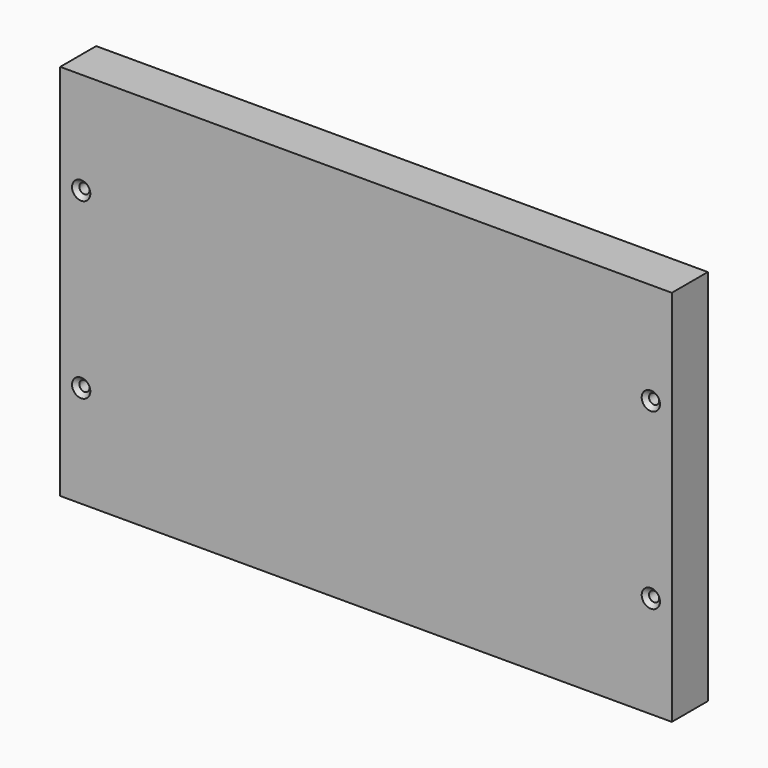
from build123d import *

# Parameters (mm, degrees)
SKETCH_W         = 204
SKETCH_H         = 126
PAD_DEPTH        = 15
SKETCH001_W      = 202
SKETCH001_H      = 124
POCKET_DEPTH     = 14
SKETCH002_R      = 3
PAD001_DEPTH     = 15
HOLE_D           = 3.4
HOLE_DEPTH       = 25
HOLE_CSINK_D     = 6.1
HOLE_CSINK_ANGLE = 90


with BuildPart() as part:
    # Sketch → Pad (new body)
    with BuildSketch(Plane.XZ):
        Rectangle(SKETCH_W, SKETCH_H)
    extrude(amount=-PAD_DEPTH)

    # Sketch001 (on Face6 of Pad) → Pocket (cut)
    with BuildSketch(Plane(origin=(0, 15, 0), x_dir=(1, 0, 0), z_dir=(0, 1, 0))):
        Rectangle(SKETCH001_W, SKETCH001_H)
    extrude(amount=-POCKET_DEPTH, mode=Mode.SUBTRACT)

    # Sketch002 (on Face4 of Pocket) → Pad001 (join)
    with BuildSketch(Plane.XZ):
        with Locations((-95, 29)):
            Circle(SKETCH002_R)
        with Locations((95, 29)):
            Circle(SKETCH002_R)
        with Locations((95, -29)):
            Circle(SKETCH002_R)
        with Locations((-95, -29)):
            Circle(SKETCH002_R)
    extrude(amount=-PAD001_DEPTH)

    # Hole
    with Locations(Plane.XZ):
        with Locations((-95, 29), (95, 29), (95, -29), (-95, -29)):
            CounterSinkHole(HOLE_D / 2, HOLE_CSINK_D / 2, depth=HOLE_DEPTH, counter_sink_angle=HOLE_CSINK_ANGLE)


solid = part.part
